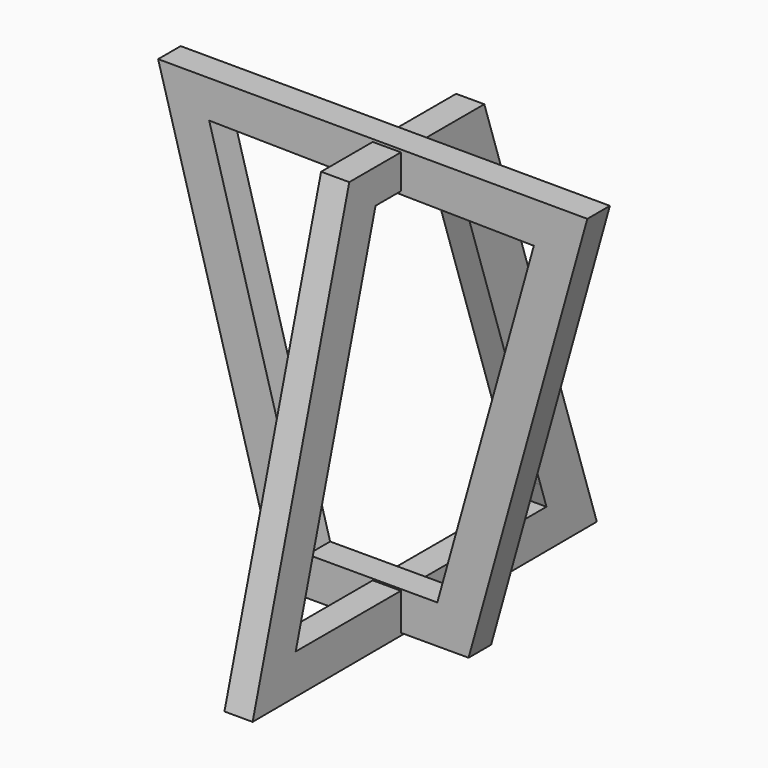
from build123d import *

# Parameters (mm, degrees)
F1_DEPTH = 10
F3_DEPTH = 10


with BuildPart() as f1:
    # F0 (on Front) → F1 (new body)
    with BuildSketch(Plane.XZ):
        Polygon((76.127365, 75.388268), (-76.127373, 75.757816), (-33.629082, -75.388253), (33.998623, -75.388253), align=None)
        Polygon((-23.10416, -61.722801), (-58.019407, 62.454015), (57.148169, 60.806212), (22.912115, -61.722801), align=None, mode=Mode.SUBTRACT)
    extrude(amount=F1_DEPTH)

    # F2 (on Right) → F3 (join)
    with BuildSketch(Plane.YZ):
        Polygon((-32.889985, 74.649155), (-75.757824, -76.496929), (76.861486, -76.012522), (26.977167, 74.649155), align=None)
        Polygon((54.541084, -62.278762), (-56.656782, -62.278762), (-21.255233, 62.542212), (13.212662, 62.542212), (51.919326, -54.360474), align=None, mode=Mode.SUBTRACT)
    extrude(amount=F3_DEPTH)


solid = f1.part
